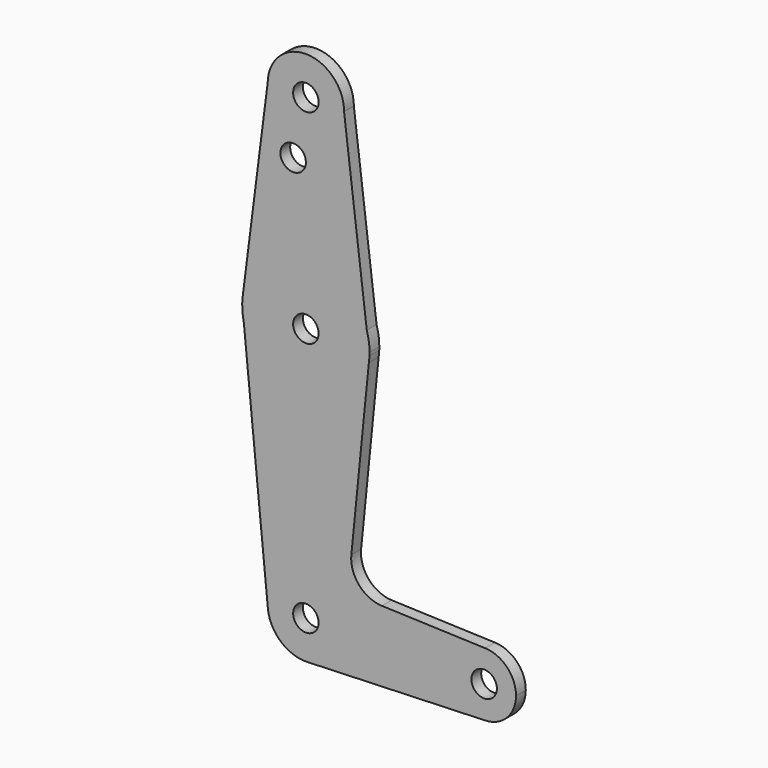
from build123d import *

# Parameters (mm, degrees)
F0_R     = 3.175
F1_DEPTH = 3.048


with BuildPart() as f1:
    # F0 (on Front) → F1 (new body)
    with BuildSketch(Plane.XZ):
        with BuildLine():
            ThreePointArc((-12.7854881337, 80.8610949201), (-12.7852596506, 80.899184593), (-12.7851834892, 80.937274875))
            ThreePointArc((-12.7851834892, 80.937274875), (-22.2471183682, 90.4620660953), (-31.8343483796, 81.0634023523))
            ThreePointArc((-31.8343483796, 81.0634023523), (-22.411337553, 71.4128120106), (-12.7854881337, 80.8610949201))
        make_face()
        with Locations((-22.3101834892, 80.937274875)):
            Circle(F0_R, mode=Mode.SUBTRACT)
        with BuildLine():
            ThreePointArc((-12.7854881337, 80.8610949201), (-22.411337553, 71.4128120106), (-31.8343483796, 81.0634023523))
            Line((-31.8343483796, 81.0634023523), (-38.0582557079, 32.1407334833))
            ThreePointArc((-38.0582557079, 32.1407334833), (-23.6548998562, 45.955219207), (-7.1262945935, 34.7703238714))
            Line((-7.1262945935, 34.7703238714), (-12.7854881337, 80.8610949201))
        make_face()
        with Locations((-25.4851834892, 66.662474875)):
            Circle(F0_R, mode=Mode.SUBTRACT)
        with BuildLine():
            Line((-38.1809659364, 30.5031840332), (-38.0582557079, 32.1407334833))
            ThreePointArc((-38.0582557079, 32.1407334833), (-38.1407989114, 31.3235464937), (-38.1809659364, 30.5031840332))
        make_face()
        with BuildLine():
            ThreePointArc((-7.1262945935, 34.7703238714), (-23.6548998562, 45.955219207), (-38.0582557079, 32.1407334833))
            Line((-38.0582557079, 32.1407334833), (-38.1809659364, 30.5031840332))
            Line((-38.1809659364, 30.5031840332), (-37.8036290632, 26.677683968))
            ThreePointArc((-37.8036290632, 26.677683968), (-21.7408139219, 14.272488608), (-6.6085957512, 27.7972390834))
            Line((-6.6085957512, 27.7972390834), (-6.4564864499, 29.3151342629))
            Line((-6.4564864499, 29.3151342629), (-7.1262945935, 34.7703238714))
        make_face()
        with Locations((-22.3101834892, 30.137274875)):
            Circle(F0_R, mode=Mode.SUBTRACT)
        with BuildLine():
            ThreePointArc((-6.4351834892, 30.137274875), (-6.6089118652, 32.4794308028), (-7.1262945935, 34.7703238714))
            Line((-7.1262945935, 34.7703238714), (-6.4564864499, 29.3151342629))
            ThreePointArc((-6.4564864499, 29.3151342629), (-6.440510123, 29.7260665938), (-6.4351834892, 30.137274875))
        make_face()
        with BuildLine():
            Line((-37.8036290632, 26.677683968), (-38.1809659364, 30.5031840332))
            ThreePointArc((-38.1809659364, 30.5031840332), (-38.1085160762, 28.5789705178), (-37.8036290632, 26.677683968))
        make_face()
        with BuildLine():
            ThreePointArc((-6.6085957512, 27.7972390834), (-6.514297924, 28.5543585121), (-6.4564864499, 29.3151342629))
            Line((-6.4564864499, 29.3151342629), (-6.6085957512, 27.7972390834))
        make_face()
        with BuildLine():
            ThreePointArc((-6.6085957512, 27.7972390834), (-21.7408139219, 14.272488608), (-37.8036290632, 26.677683968))
            Line((-37.8036290632, 26.677683968), (-31.7891830414, -34.2977077393))
            ThreePointArc((-31.7891830414, -34.2977077393), (-22.7782402513, -23.8492321877), (-12.7851834892, -33.362725125))
            ThreePointArc((-12.7851834892, -33.362725125), (-15.4556806091, -39.976454426), (-21.9697326265, -42.8816388346))
            Line((-21.9697326265, -42.8816388346), (22.2815475654, -41.2989596577))
            ThreePointArc((22.2815475654, -41.2989596577), (14.2025437573, -33.3026627772), (22.4016334406, -25.429544291))
            Line((22.4016334406, -25.429544291), (-3.3480058019, -24.509310068))
            ThreePointArc((-3.3480058019, -24.509310068), (-9.0536438929, -21.7920519146), (-10.9746442815, -15.7714576412))
            Line((-10.9746442815, -15.7714576412), (-6.6085957512, 27.7972390834))
        make_face()
        with BuildLine():
            ThreePointArc((-12.7851834892, -33.362725125), (-22.7782402513, -23.8492321877), (-31.7891830414, -34.2977077393))
            ThreePointArc((-31.7891830414, -34.2977077393), (-28.5790937852, -40.5339445959), (-21.9697326265, -42.8816388346))
            ThreePointArc((-21.9697326265, -42.8816388346), (-15.4556806091, -39.976454426), (-12.7851834892, -33.362725125))
        make_face()
        with Locations((-22.3101834892, -33.362725125)):
            Circle(F0_R, mode=Mode.SUBTRACT)
        with BuildLine():
            ThreePointArc((22.4016334406, -25.429544291), (14.2025437573, -33.3026627772), (22.2815475654, -41.2989596577))
            ThreePointArc((22.2815475654, -41.2989596577), (27.8023643692, -38.9250499988), (30.0773165108, -33.362725125))
            ThreePointArc((30.0773165108, -33.362725125), (27.8442918649, -27.8434074874), (22.4016334406, -25.429544291))
        make_face()
        with Locations((22.1398165108, -33.362725125)):
            Circle(F0_R, mode=Mode.SUBTRACT)
    extrude(amount=F1_DEPTH)


solid = f1.part
